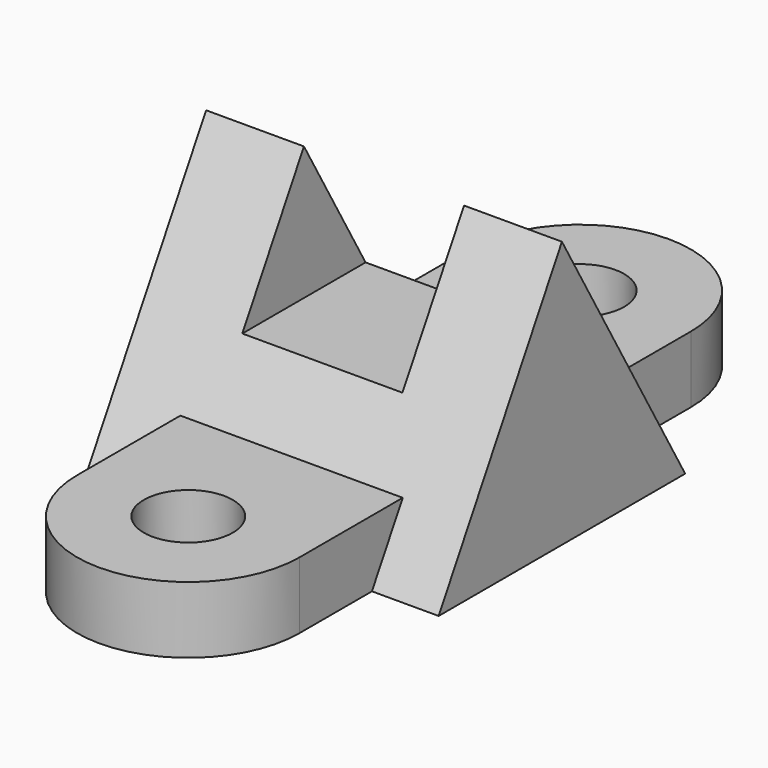
from build123d import *

# Parameters (mm, degrees)
F1_DEPTH = 80
F2_DEPTH = 22
F5_DEPTH = 22
F7_R     = 10
F8_DEPTH = 15


with BuildPart() as f1:
    # F0 (on Right) → F1 (new body)
    with BuildSketch(Plane.YZ):
        Polygon((0, 30), (0, 0), (34.641016, 0), (17.320508, 30), align=None)
        Polygon((-34.641016, 0), (0, 0), (0, 30), (-17.320508, 30), align=None)
    extrude(amount=F1_DEPTH)

    # F0 (on Right) → F2 (join)
    with BuildSketch(Plane.YZ):
        Polygon((-17.320508, 30), (0, 30), (17.320508, 30), (0, 60), align=None)
    extrude(amount=F2_DEPTH)

    # F4 (on face) → F5 (join)
    with BuildSketch(Plane.YZ.offset(80)):
        Polygon((0, 60), (-17.320508, 30), (17.320508, 30), align=None)
    extrude(amount=-F5_DEPTH)

    # F7 (on Top) → F8 (join)
    with BuildSketch(Plane.XY):
        with BuildLine():
            Line((65, -55), (65, 55))
            ThreePointArc((65, 55), (40, 80), (15, 55))
            Line((15, 55), (15, -55))
            ThreePointArc((15, -55), (40, -80), (65, -55))
        make_face()
        with Locations((40, -55)):
            Circle(F7_R, mode=Mode.SUBTRACT)
        with Locations((40, 55)):
            Circle(F7_R, mode=Mode.SUBTRACT)
    extrude(amount=F8_DEPTH)


solid = f1.part
